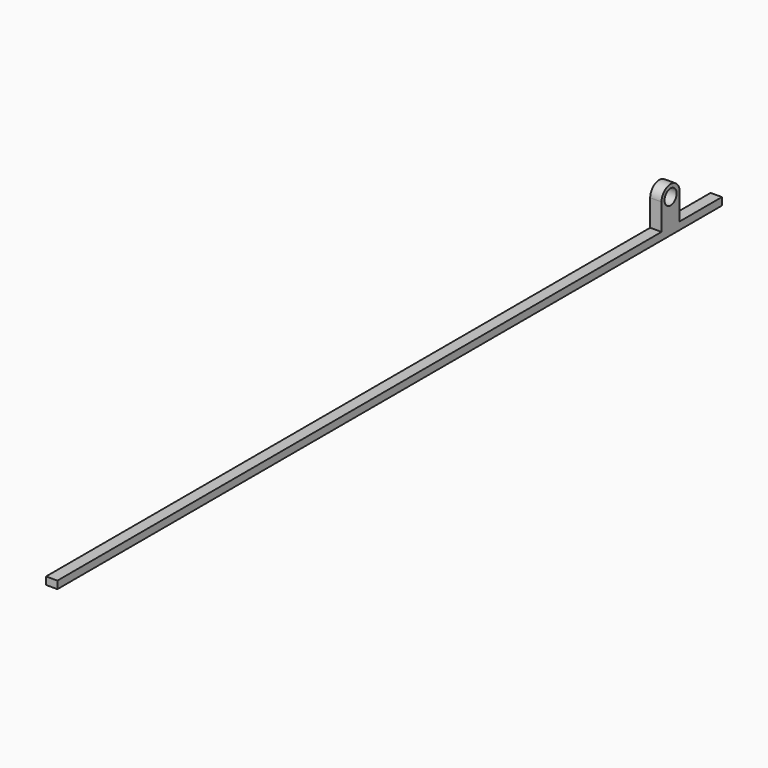
from build123d import *

# Parameters (mm, degrees)
F0_R          = 2.54
F1_DEPTH      = 3.81
F1_FACE_W     = 3.81
F1_FACE_H     = 7.62
F2_DEPTH      = 7.62
F3_W          = 3.81
F3_H          = 2.54
F4_DEPTH      = 254
F4_DEPTH_BACK = 25.4


with BuildPart() as f1:
    # F0 (on Right) → F1 (new body)
    with BuildSketch(Plane.YZ):
        with BuildLine():
            ThreePointArc((-11.112122, 15.191537), (-14.922122, 18.938949), (-18.732122, 15.191537))
            Line((-18.732122, 15.191537), (-18.732122, 11.381537))
            Line((-18.732122, 11.381537), (-11.112122, 11.381537))
            Line((-11.112122, 11.381537), (-11.112122, 15.191537))
        make_face()
        with Locations((-14.922122, 15.128426)):
            Circle(F0_R, mode=Mode.SUBTRACT)
    extrude(amount=F1_DEPTH)

    # F1_face (on face) → F2 (join)
    with BuildSketch(Plane(origin=(1.905, -14.922122, 11.381537), x_dir=(1, 0, 0), z_dir=(0, 0, -1))):
        Rectangle(F1_FACE_W, F1_FACE_H)
    extrude(amount=F2_DEPTH)

    # F3 (on face) → F4 (join, two sides)
    with BuildSketch(Plane.XZ.offset(18.732122)) as f4_sk:
        with Locations((1.905, 5.031537)):
            Rectangle(F3_W, F3_H)
    extrude(amount=F4_DEPTH)
    extrude(f4_sk.sketch, amount=-F4_DEPTH_BACK)


solid = f1.part
